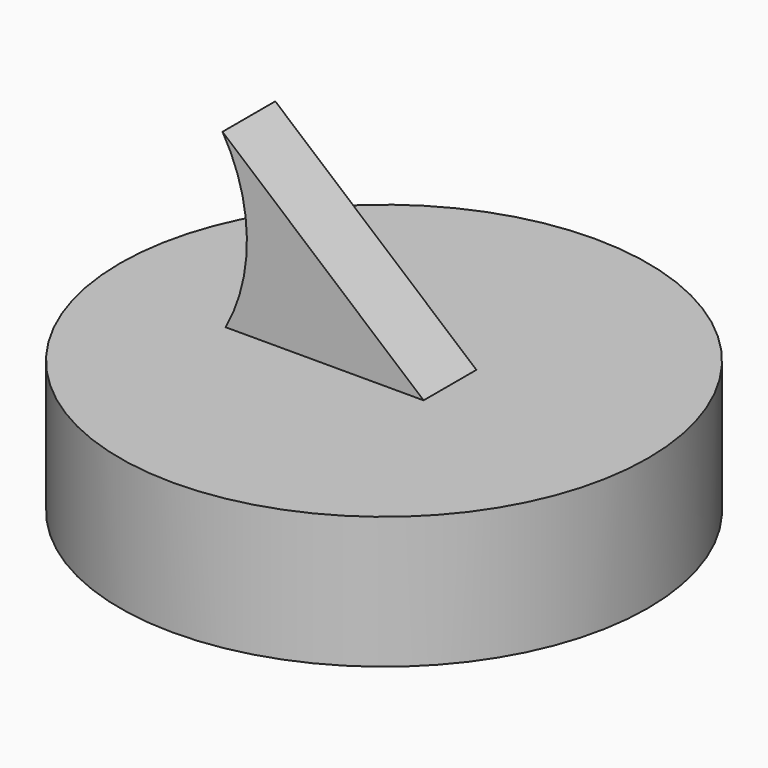
from build123d import *

# Parameters (mm, degrees)
F0_R     = 20
F1_DEPTH = 10
F4_DEPTH = 2.5


with BuildPart() as f1:
    # F0 (on Top) → F1 (new body)
    with BuildSketch(Plane.XY):
        Circle(F0_R)
    extrude(amount=F1_DEPTH)


with BuildPart() as f4:
    # F3 (on Front) → F4 (new body, symmetric)
    with BuildSketch(Plane.XZ):
        with BuildLine():
            Line((-10.000816, 10.000104), (4.999548, 10.000104))
            Line((4.999548, 10.000104), (-10.235757, 22.96035))
            ThreePointArc((-10.235757, 22.96035), (-8.389302, 16.51157), (-10.000816, 10.000104))
        make_face()
    extrude(amount=F4_DEPTH, both=True)


solid = Compound([f1.part, f4.part])
